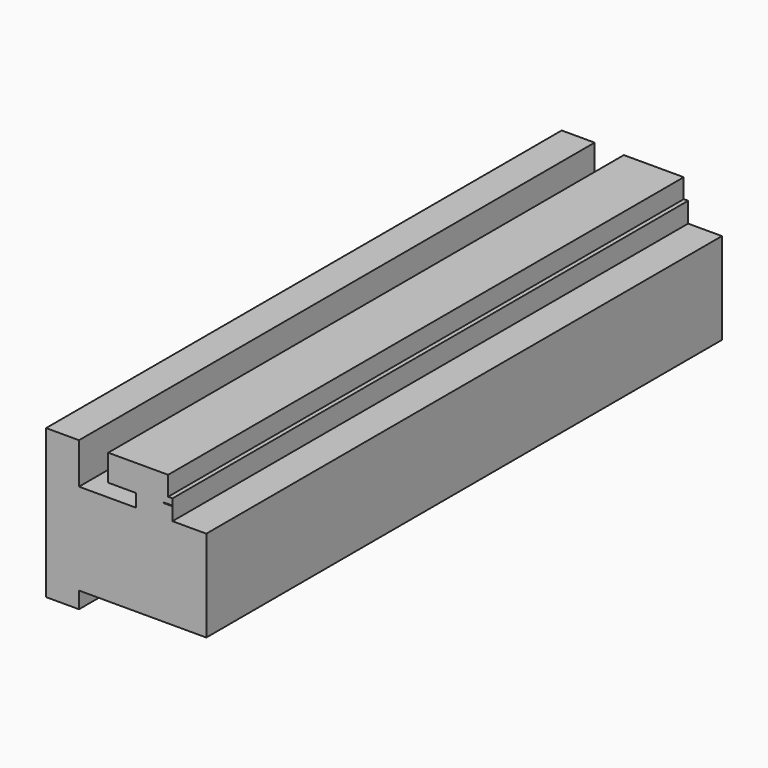
from build123d import *

# Parameters (mm, degrees)
F0_W     = 32.9953059554
F0_H     = 44.6754731238
F0_W_2   = 28.0995182693
F0_H_2   = 82.8826576471
F1_DEPTH = 584.2


with BuildPart() as f1:
    # F0 (on Front) → F1 (new body)
    with BuildSketch(Plane.XZ):
        with Locations((16.4976529777, 3.1593907624)):
            Rectangle(F0_W, F0_H)
        Polygon((-79.8604041338, 25.4971273243), (-51.7608858645, 25.4971273243), (-51.7608858645, 62.5501945615), (-81.5997198224, 62.5501945615), (-81.5997198224, -72.3645836115), (-51.7608858645, -72.3645836115), (-51.7608858645, -57.3855303228), (-79.8604041338, -57.3855303228), align=None)
        Polygon((32.119769603, 37.3561829329), (29.0217325091, 37.3561829329), (29.0217325091, 37.2633710504), (0, 37.2633710504), (0, 25.4971273243), (32.9953059554, 25.4971273243), (32.9953059554, 43.7167361379), (29.0217325091, 43.7167361379), (29.0217325091, 37.9270091653), (32.119769603, 37.9270091653), align=None)
        Polygon((0, -19.1783457994), (0, 25.4971273243), (-51.7608858645, 25.4971273243), (-51.7608858645, -57.3855303228), (63.632145524, -57.3855303228), (63.632145524, 25.4971273243), (32.9953059554, 25.4971273243), (32.9953059554, -19.1783457994), align=None)
        Polygon((29.0217325091, 37.3561829329), (24.8597376049, 37.3561829329), (24.8597376049, 37.9270091653), (29.0217325091, 37.9270091653), (29.0217325091, 43.7167361379), (0, 43.7167361379), (0, 37.2633710504), (29.0217325091, 37.2633710504), align=None)
        with Locations((-65.8106449991, -15.9442014992)):
            Rectangle(F0_W_2, F0_H_2)
        Polygon((0, 43.7167361379), (29.0217325091, 43.7167361379), (29.0217325091, 61.2221509218), (-25.2714622766, 61.2221509218), (-25.2714622766, 37.2633710504), (0, 37.2633710504), align=None)
    extrude(amount=-F1_DEPTH)


solid = f1.part
